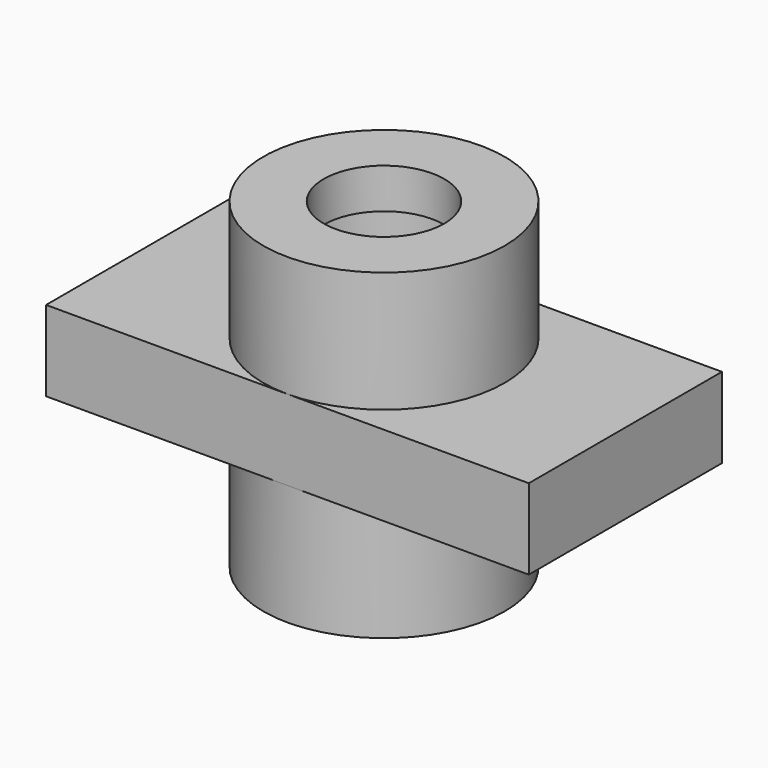
from build123d import *

# Parameters (mm, degrees)
F0_W          = 76.2
F0_H          = 38.1
F1_DEPTH      = 12.7
F2_R          = 9.525
F3_DEPTH      = 19.05
F4_R          = 9.525
F5_DEPTH      = 19.05
F6_DEPTH      = 31.751
F7_R          = 12.7
F7_R_2        = 9.525
F8_DEPTH      = 12.7
F8_DEPTH_BACK = 25.4
F9_R          = 12.7
F9_R_2        = 9.525
F10_DEPTH     = 6.35


with BuildPart() as f1:
    # F0 (on Top) → F1 (new body)
    with BuildSketch(Plane.XY):
        with Locations((-38.1, -19.05)):
            Rectangle(F0_W, F0_H)
    extrude(amount=F1_DEPTH)

    # F2 (on face) → F3 (join)
    with BuildSketch(Plane.XY.offset(12.7)):
        with BuildLine():
            ThreePointArc((-38.1, -38.1), (-24.6296158184, -32.5203841816), (-19.05, -19.05))
            ThreePointArc((-19.05, -19.05), (-24.6296158184, -5.5796158184), (-38.1, 0))
            ThreePointArc((-38.1, 0), (-57.15, -19.05), (-38.1, -38.1))
        make_face()
        with Locations((-38.1, -19.05)):
            Circle(F2_R, mode=Mode.SUBTRACT)
    extrude(amount=F3_DEPTH)

    # F4 (on face) → F5 (join)
    with BuildSketch(Plane(origin=(0, 0, 0), x_dir=(1, 0, 0), z_dir=(0, 0, -1))):
        with BuildLine():
            ThreePointArc((-38.1, 0), (-24.6296158184, 5.5796158184), (-19.05, 19.05))
            ThreePointArc((-19.05, 19.05), (-24.6296158184, 32.5203841816), (-38.1, 38.1))
            ThreePointArc((-38.1, 38.1), (-57.15, 19.05), (-38.1, 0))
        make_face()
        with Locations((-38.1, 19.05)):
            Circle(F4_R, mode=Mode.SUBTRACT)
    extrude(amount=F5_DEPTH)

    # F6 (cut, through all): a face of the model
    f6_faces = [f1.faces().sort_by_distance(p)[0] for p in [
        (-38.1, -19.05, 12.7),
    ]]
    extrude(f6_faces, amount=-F6_DEPTH, mode=Mode.SUBTRACT)

    # F7 (on face) → F8 (cut, two sides)
    with BuildSketch(Plane.XY.offset(31.75)) as f8_sk:
        with Locations((-38.1, -19.05)):
            Circle(F7_R)
        with Locations((-38.1, -19.05)):
            Circle(F7_R_2, mode=Mode.SUBTRACT)
    extrude(amount=-F8_DEPTH, mode=Mode.SUBTRACT)
    extrude(f8_sk.sketch, amount=F8_DEPTH_BACK, mode=Mode.SUBTRACT)

    # F9 (on face) → F10 (join)
    with BuildSketch(Plane.XY.offset(31.75)):
        with Locations((-38.1, -19.05)):
            Circle(F9_R)
        with Locations((-38.1, -19.05)):
            Circle(F9_R_2, mode=Mode.SUBTRACT)
    extrude(amount=-F10_DEPTH)


solid = f1.part
